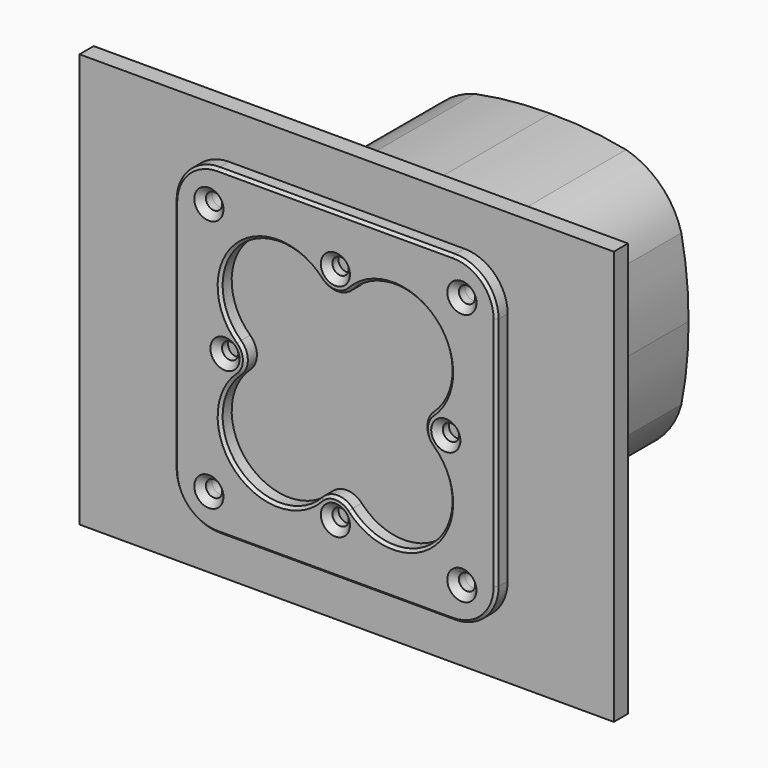
from build123d import *

# Parameters (mm, degrees)
F0_W     = 147.527962
F0_H     = 114.3
F0_R     = 2.2479
F0_R_2   = 38.1
F1_DEPTH = 4.9022
F2_R     = 2.2479
F3_DEPTH = 3.8862
F4_SIZE  = 0.762
F5_SIZE  = 1.778
F7_DEPTH = 70.358


with BuildPart() as f1:
    # F0 (on Front) → F1 (new body)
    with BuildSketch(Plane.XZ):
        Rectangle(F0_W, F0_H)
        with Locations((-34.925, -34.925)):
            Circle(F0_R, mode=Mode.SUBTRACT)
        with BuildLine():
            ThreePointArc((-39.370047, 0), (-38.911196, 10.623755), (-37.358087, 21.143383))
            ThreePointArc((-37.358087, 21.143383), (-31.430896, 31.430896), (-21.143383, 37.358087))
            ThreePointArc((-21.143383, 37.358087), (-10.623755, 38.911196), (0, 39.370047))
            ThreePointArc((0, 39.370047), (10.623755, 38.911196), (21.143383, 37.358087))
            ThreePointArc((21.143383, 37.358087), (31.430896, 31.430896), (37.358087, 21.143383))
            ThreePointArc((37.358087, 21.143383), (38.911196, 10.623755), (39.370047, 0))
            ThreePointArc((39.370047, 0), (38.911196, -10.623755), (37.358087, -21.143383))
            ThreePointArc((37.358087, -21.143383), (31.430896, -31.430896), (21.143383, -37.358087))
            ThreePointArc((21.143383, -37.358087), (10.623755, -38.911196), (0, -39.370047))
            ThreePointArc((0, -39.370047), (-10.623755, -38.911196), (-21.143383, -37.358087))
            ThreePointArc((-21.143383, -37.358087), (-31.430896, -31.430896), (-37.358087, -21.143383))
            ThreePointArc((-37.358087, -21.143383), (-38.911196, -10.623755), (-39.370047, 0))
        make_face(mode=Mode.SUBTRACT)
        with Locations((34.925, -34.925)):
            Circle(F0_R, mode=Mode.SUBTRACT)
        with Locations((-34.925, 34.925)):
            Circle(F0_R, mode=Mode.SUBTRACT)
        with Locations((34.925, 34.925)):
            Circle(F0_R, mode=Mode.SUBTRACT)
        Circle(F0_R_2)
    extrude(amount=-F1_DEPTH)


with BuildPart() as f3:
    # F2 (on Front) → F3 (new body)
    with BuildSketch(Plane.XZ):
        with BuildLine():
            Line((-32.512, -44.45), (32.512, -44.45))
            ThreePointArc((32.512, -44.45), (40.953441, -40.953441), (44.45, -32.512))
            Line((44.45, -32.512), (44.45, 32.512))
            ThreePointArc((44.45, 32.512), (40.953441, 40.953441), (32.512, 44.45))
            Line((32.512, 44.45), (-32.512, 44.45))
            ThreePointArc((-32.512, 44.45), (-40.953441, 40.953441), (-44.45, 32.512))
            Line((-44.45, 32.512), (-44.45, -32.512))
            ThreePointArc((-44.45, -32.512), (-40.953441, -40.953441), (-32.512, -44.45))
        make_face()
        with Locations((-34.925, -34.925)):
            Circle(F2_R, mode=Mode.SUBTRACT)
        with Locations((0, -30.48)):
            Circle(F2_R, mode=Mode.SUBTRACT)
        with Locations((34.925, -34.925)):
            Circle(F2_R, mode=Mode.SUBTRACT)
        with BuildLine():
            ThreePointArc((-26.623272, 4.192095), (-27.10032, 27.10032), (-4.192095, 26.623272))
            ThreePointArc((-4.192095, 26.623272), (0, 24.783685), (4.192095, 26.623272))
            ThreePointArc((4.192095, 26.623272), (27.10032, 27.10032), (26.623272, 4.192095))
            ThreePointArc((26.623272, 4.192095), (24.783685, 0), (26.623272, -4.192095))
            ThreePointArc((26.623272, -4.192095), (27.10032, -27.10032), (4.192095, -26.623272))
            ThreePointArc((4.192095, -26.623272), (0, -24.783685), (-4.192095, -26.623272))
            ThreePointArc((-4.192095, -26.623272), (-27.10032, -27.10032), (-26.623272, -4.192095))
            ThreePointArc((-26.623272, -4.192095), (-24.783685, 0), (-26.623272, 4.192095))
        make_face(mode=Mode.SUBTRACT)
        with Locations((-30.48, 0)):
            Circle(F2_R, mode=Mode.SUBTRACT)
        with Locations((-34.925, 34.925)):
            Circle(F2_R, mode=Mode.SUBTRACT)
        with Locations((30.48, 0)):
            Circle(F2_R, mode=Mode.SUBTRACT)
        with Locations((0, 30.48)):
            Circle(F2_R, mode=Mode.SUBTRACT)
        with Locations((34.925, 34.925)):
            Circle(F2_R, mode=Mode.SUBTRACT)
    extrude(amount=F3_DEPTH)

    # F4
    f4_edges = [f3.edges().sort_by_distance(p)[0] for p in [
        (-27.10032, -3.8862, 27.10032),
        (44.45, -3.8862, 0),
    ]]
    chamfer(f4_edges, length=F4_SIZE)

    # F5
    f5_edges = [f3.edges().sort_by_distance(p)[0] for p in [
        (-2.2479, -3.8862, 30.48),
        (-37.1729, -3.8862, 34.925),
        (-32.7279, -3.8862, 0),
        (-37.1729, -3.8862, -34.925),
        (-2.2479, -3.8862, -30.48),
        (32.6771, -3.8862, -34.925),
        (28.2321, -3.8862, 0),
        (32.6771, -3.8862, 34.925),
    ]]
    chamfer(f5_edges, length=F5_SIZE)


with BuildPart() as f7:
    # F6 (on Front) → F7 (new body)
    with BuildSketch(Plane.XZ):
        with BuildLine():
            ThreePointArc((-20.854339, 36.120774), (-30.532871, 30.532871), (-36.120774, 20.854339))
            ThreePointArc((-36.120774, 20.854339), (-37.649295, 10.478316), (-38.1, 0))
            ThreePointArc((-38.1, 0), (-37.649295, -10.478316), (-36.120774, -20.854339))
            ThreePointArc((-36.120774, -20.854339), (-30.532871, -30.532871), (-20.854339, -36.120774))
            ThreePointArc((-20.854339, -36.120774), (-10.478316, -37.649295), (0, -38.1))
            ThreePointArc((0, -38.1), (10.478316, -37.649295), (20.854339, -36.120774))
            ThreePointArc((20.854339, -36.120774), (30.532871, -30.532871), (36.120774, -20.854339))
            ThreePointArc((36.120774, -20.854339), (37.649295, -10.478316), (38.1, 0))
            ThreePointArc((38.1, 0), (37.649295, 10.478316), (36.120774, 20.854339))
            ThreePointArc((36.120774, 20.854339), (30.532871, 30.532871), (20.854339, 36.120774))
            ThreePointArc((20.854339, 36.120774), (10.478316, 37.649295), (0, 38.1))
            ThreePointArc((0, 38.1), (-10.478316, 37.649295), (-20.854339, 36.120774))
        make_face()
    extrude(amount=-F7_DEPTH)


solid = Compound([f1.part, f3.part, f7.part])
